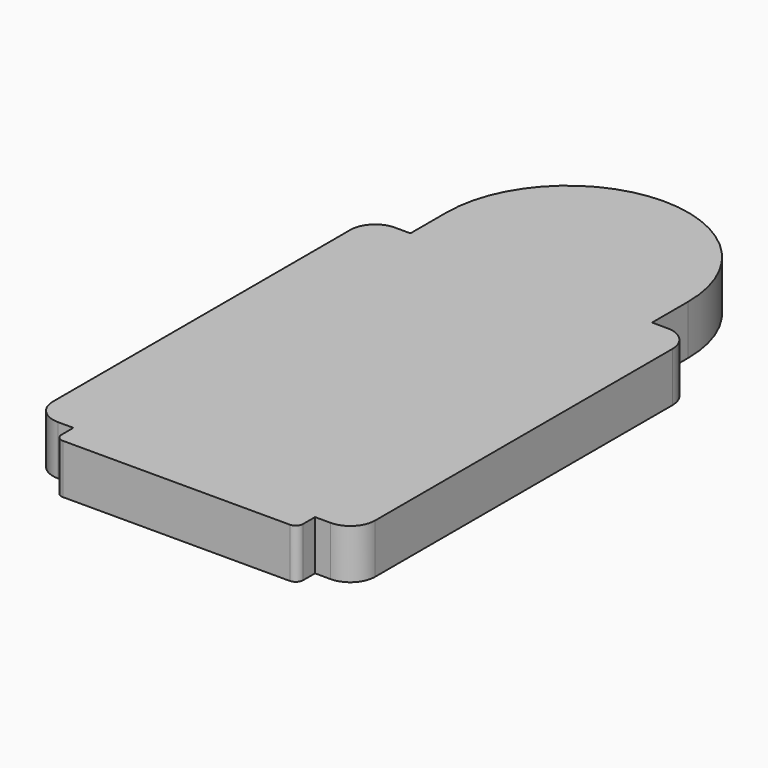
from build123d import *

# Parameters (mm, degrees)
F1_DEPTH = 20


with BuildPart() as f1:
    # F0 (on Top) → F1 (new body)
    with BuildSketch(Plane.XY):
        with BuildLine():
            Line((-41.75, -120.5), (0, -120.5))
            Line((0, -120.5), (41.75, -120.5))
            ThreePointArc((41.75, -120.5), (43.164214, -119.914214), (43.75, -118.5))
            Line((43.75, -118.5), (43.75, -106.5))
            Line((43.75, -106.5), (55, -106.5))
            ThreePointArc((55, -106.5), (58.535534, -105.035534), (60, -101.5))
            Line((60, -101.5), (60, 48.5))
            ThreePointArc((60, 48.5), (58.535534, 52.035534), (55, 53.5))
            Line((55, 53.5), (43.75, 53.5))
            Line((43.75, 53.5), (43.75, 76.75))
            ThreePointArc((43.75, 76.75), (30.935922, 107.685922), (0, 120.5))
            ThreePointArc((0, 120.5), (-30.935922, 107.685922), (-43.75, 76.75))
            Line((-43.75, 76.75), (-43.75, 53.5))
            Line((-43.75, 53.5), (-55, 53.5))
            ThreePointArc((-55, 53.5), (-58.535534, 52.035534), (-60, 48.5))
            Line((-60, 48.5), (-60, -101.5))
            ThreePointArc((-60, -101.5), (-58.535534, -105.035534), (-55, -106.5))
            Line((-55, -106.5), (-43.75, -106.5))
            Line((-43.75, -106.5), (-43.75, -118.5))
            ThreePointArc((-43.75, -118.5), (-43.164214, -119.914214), (-41.75, -120.5))
        make_face()
        with BuildLine():
            Line((-41.75, -120.5), (0, -120.5))
            Line((0, -120.5), (41.75, -120.5))
            ThreePointArc((41.75, -120.5), (43.164214, -119.914214), (43.75, -118.5))
            Line((43.75, -118.5), (43.75, -106.5))
            Line((43.75, -106.5), (55, -106.5))
            ThreePointArc((55, -106.5), (58.535534, -105.035534), (60, -101.5))
            Line((60, -101.5), (60, 48.5))
            ThreePointArc((60, 48.5), (58.535534, 52.035534), (55, 53.5))
            Line((55, 53.5), (43.75, 53.5))
            Line((43.75, 53.5), (43.75, 76.75))
            ThreePointArc((43.75, 76.75), (30.935922, 107.685922), (0, 120.5))
            ThreePointArc((0, 120.5), (-30.935922, 107.685922), (-43.75, 76.75))
            Line((-43.75, 76.75), (-43.75, 53.5))
            Line((-43.75, 53.5), (-55, 53.5))
            ThreePointArc((-55, 53.5), (-58.535534, 52.035534), (-60, 48.5))
            Line((-60, 48.5), (-60, -101.5))
            ThreePointArc((-60, -101.5), (-58.535534, -105.035534), (-55, -106.5))
            Line((-55, -106.5), (-43.75, -106.5))
            Line((-43.75, -106.5), (-43.75, -118.5))
            ThreePointArc((-43.75, -118.5), (-43.164214, -119.914214), (-41.75, -120.5))
        make_face()
        with BuildLine():
            Line((-45.750001, -120.5), (-41.75, -120.5))
            ThreePointArc((-41.75, -120.5), (-43.164214, -119.914214), (-43.75, -118.5))
            Line((-43.75, -118.5), (-43.75, -106.5))
            Line((-43.75, -106.5), (-55, -106.5))
            ThreePointArc((-55, -106.5), (-58.535534, -105.035534), (-60, -101.5))
            Line((-60, -101.5), (-60, 48.5))
            ThreePointArc((-60, 48.5), (-58.535534, 52.035534), (-55, 53.5))
            Line((-55, 53.5), (-43.75, 53.5))
            Line((-43.75, 53.5), (-43.75, 76.75))
            ThreePointArc((-43.75, 76.75), (-30.935922, 107.685922), (0, 120.5))
            ThreePointArc((0, 120.5), (30.935922, 107.685922), (43.75, 76.75))
            Line((43.75, 76.75), (43.75, 53.5))
            Line((43.75, 53.5), (55, 53.5))
            ThreePointArc((55, 53.5), (58.535534, 52.035534), (60, 48.5))
            Line((60, 48.5), (60, -101.5))
            ThreePointArc((60, -101.5), (58.535534, -105.035534), (55, -106.5))
            Line((55, -106.5), (43.75, -106.5))
            Line((43.75, -106.5), (43.75, -118.5))
            ThreePointArc((43.75, -118.5), (43.164214, -119.914214), (41.75, -120.5))
            Line((41.75, -120.5), (45.750001, -120.5))
            ThreePointArc((45.750001, -120.5), (47.871322, -119.62132), (48.750001, -117.5))
            Line((48.750001, -117.5), (48.750001, -111.500001))
            Line((48.750001, -111.500001), (55, -111.500001))
            ThreePointArc((55, -111.500001), (62.071069, -108.571069), (65.000001, -101.5))
            Line((65.000001, -101.5), (65.000001, 48.5))
            ThreePointArc((65.000001, 48.5), (62.071069, 55.571069), (55, 58.500001))
            Line((55, 58.500001), (48.750001, 58.500001))
            Line((48.750001, 58.500001), (48.750001, 76.75))
            ThreePointArc((48.750001, 76.75), (34.471456, 111.221456), (0, 125.500001))
            ThreePointArc((0, 125.500001), (-34.471456, 111.221456), (-48.750001, 76.75))
            Line((-48.750001, 76.75), (-48.750001, 58.500001))
            Line((-48.750001, 58.500001), (-55, 58.500001))
            ThreePointArc((-55, 58.500001), (-62.071069, 55.571069), (-65.000001, 48.5))
            Line((-65.000001, 48.5), (-65.000001, -101.5))
            ThreePointArc((-65.000001, -101.5), (-62.071069, -108.571069), (-55, -111.500001))
            Line((-55, -111.500001), (-48.750001, -111.500001))
            Line((-48.750001, -111.500001), (-48.750001, -117.5))
            ThreePointArc((-48.750001, -117.5), (-47.871322, -119.62132), (-45.750001, -120.5))
        make_face()
    extrude(amount=F1_DEPTH)


solid = f1.part
